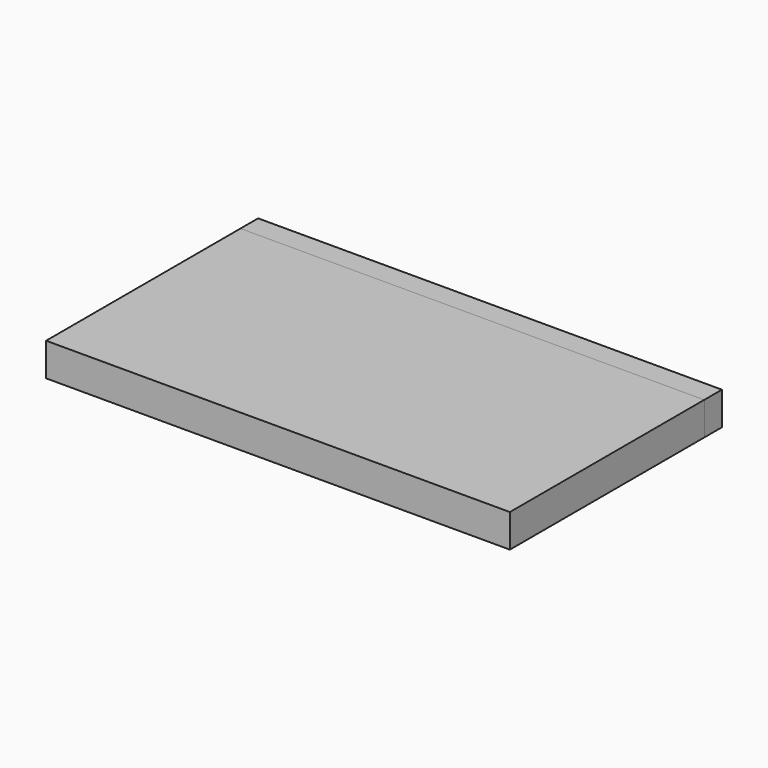
from build123d import *

# Parameters (mm, degrees)
F0_W      = 2100
F0_H      = 1100
F1_DEPTH  = 150
F1_FACE_W = 2100
F1_FACE_H = 150
F2_DEPTH  = 100


with BuildPart() as f1:
    # F0 (on Top) → F1 (new body)
    with BuildSketch(Plane.XY):
        with Locations((200.514623, -46.854059)):
            Rectangle(F0_W, F0_H)
    extrude(amount=F1_DEPTH)


with BuildPart() as f2:
    # F1_face (on face) → F2 (new body)
    with BuildSketch(Plane(origin=(200.514623, 503.145941, 75), x_dir=(-1, 0, 0), z_dir=(0, 1, 0))):
        Rectangle(F1_FACE_W, F1_FACE_H)
    extrude(amount=F2_DEPTH)


solid = Compound([f1.part, f2.part])
